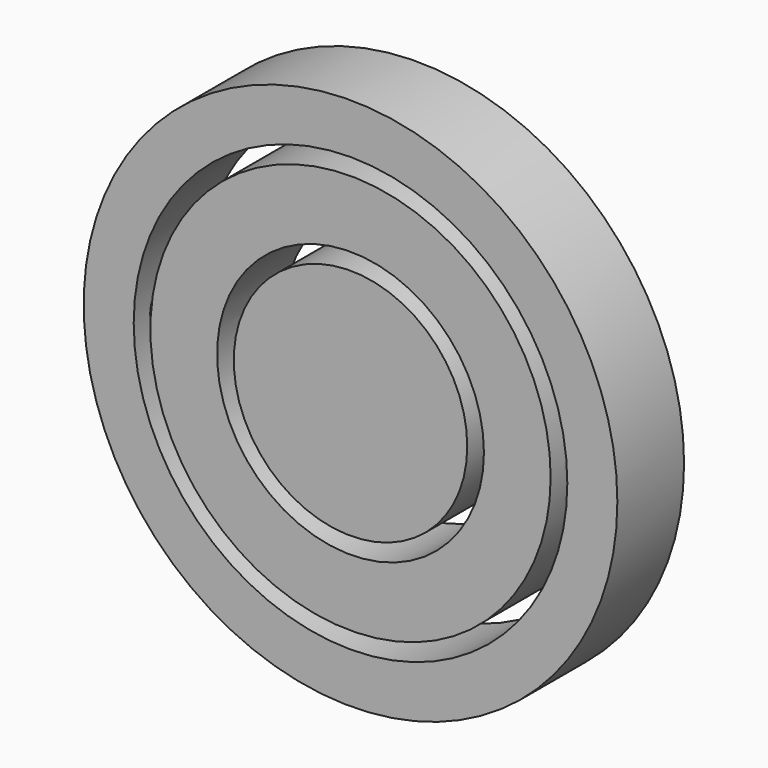
from build123d import *

# Parameters (mm, degrees)
F0_R     = 80
F0_R_2   = 65
F2_DEPTH = 25
F0_R_3   = 60
F0_R_4   = 40
F0_R_5   = 35
F1_R     = 5
F3_DEPTH = 75
F3_TAPER = -3
F4_R     = 4.75
F5_DEPTH = 77.5


with BuildPart() as f2:
    # F0 (on Front) → F2 (new body)
    with BuildSketch(Plane.XZ):
        Circle(F0_R)
        Circle(F0_R_2, mode=Mode.SUBTRACT)
    extrude(amount=F2_DEPTH)


with BuildPart() as f2b:
    # F0 (on Front) → F2, piece 2 (new body)
    with BuildSketch(Plane.XZ):
        Circle(F0_R_3)
        Circle(F0_R_4, mode=Mode.SUBTRACT)
    extrude(amount=F2_DEPTH)


with BuildPart() as f2c:
    # F0 (on Front) → F2, piece 3 (new body)
    with BuildSketch(Plane.XZ):
        Circle(F0_R_5)
    extrude(amount=F2_DEPTH)


with BuildPart() as f3_tool:
    # F1 (on Right) → F3 (new body, symmetric)
    with BuildSketch(Plane.YZ):
        with Locations((-10.4129427743, 0)):
            Circle(F1_R)
    extrude(amount=F3_DEPTH, both=True, taper=F3_TAPER)


with BuildPart() as f2_1:
    add(f2.part)

    # F3: cut by f3_tool
    add(f3_tool.part, mode=Mode.SUBTRACT)

    # F4 (on face) → F5 (join, symmetric)
    with BuildSketch(Plane.YZ):
        with Locations((-10.4129427743, 0)):
            Circle(F4_R)
    extrude(amount=F5_DEPTH, both=True)


with BuildPart() as f2b_1:
    add(f2b.part)

    # F3: cut by f3_tool
    add(f3_tool.part, mode=Mode.SUBTRACT)


with BuildPart() as f2c_1:
    add(f2c.part)

    # F3: cut by f3_tool
    add(f3_tool.part, mode=Mode.SUBTRACT)


solid = Compound([f2_1.part, f2b_1.part, f2c_1.part])
